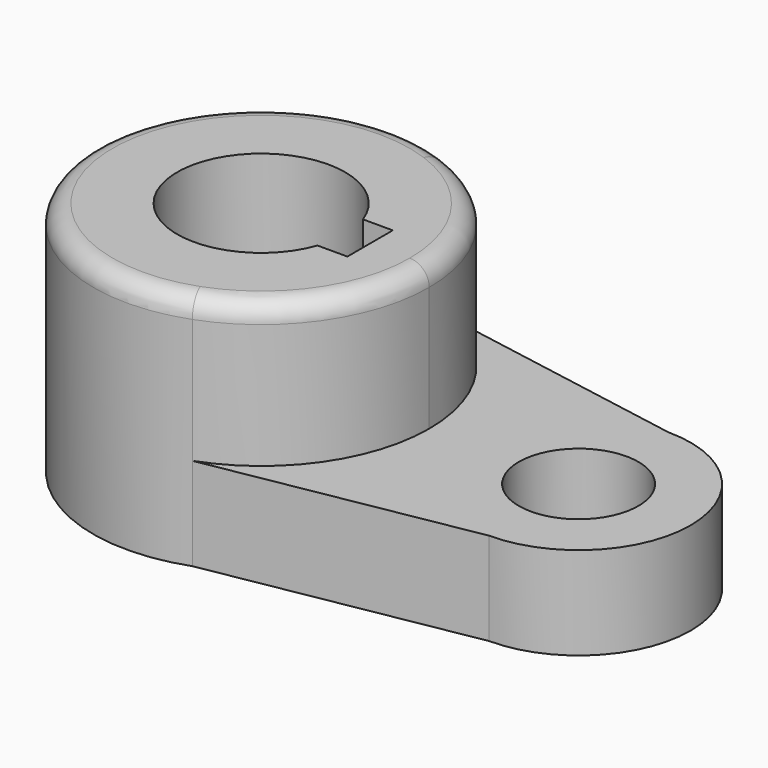
from build123d import *

# Parameters (mm, degrees)
F1_DEPTH = 40.2336
F2_DEPTH = 15.7734
F3_R     = 3.302


with BuildPart() as f1:
    # F0 (on Top) → F1 (new body)
    with BuildSketch(Plane.XY):
        with BuildLine():
            ThreePointArc((-29.8803903858, -26.8489932886), (-16.251542955, -16.3866864902), (-11.0860950838, 0))
            ThreePointArc((-11.0860950838, 0), (-16.251542955, 16.3866864902), (-29.8803903858, 26.8489932886))
            ThreePointArc((-29.8803903858, 26.8489932886), (-68.2360950838, 0), (-29.8803903858, -26.8489932886))
        make_face()
        with BuildLine():
            Line((-21.1405511945, 4.826), (-21.1405511945, 0))
            Line((-21.1405511945, 0), (-21.1405511945, -4.826))
            Line((-21.1405511945, -4.826), (-26.2133302045, -4.826))
            ThreePointArc((-26.2133302045, -4.826), (-53.9485950838, 0), (-26.2133302045, 4.826))
            Line((-26.2133302045, 4.826), (-21.1405511945, 4.826))
        make_face(mode=Mode.SUBTRACT)
    extrude(amount=F1_DEPTH)

    # F0 (on Top) → F2 (join)
    with BuildSketch(Plane.XY):
        with BuildLine():
            ThreePointArc((-29.8803903858, -26.8489932886), (-16.251542955, -16.3866864902), (-11.0860950838, 0))
            ThreePointArc((-11.0860950838, 0), (-16.251542955, 16.3866864902), (-29.8803903858, 26.8489932886))
            ThreePointArc((-29.8803903858, 26.8489932886), (-68.2360950838, 0), (-29.8803903858, -26.8489932886))
        make_face()
        with BuildLine():
            Line((-21.1405511945, 4.826), (-21.1405511945, 0))
            Line((-21.1405511945, 0), (-21.1405511945, -4.826))
            Line((-21.1405511945, -4.826), (-26.2133302045, -4.826))
            ThreePointArc((-26.2133302045, -4.826), (-53.9485950838, 0), (-26.2133302045, 4.826))
            Line((-26.2133302045, 4.826), (-21.1405511945, 4.826))
        make_face(mode=Mode.SUBTRACT)
        with BuildLine():
            ThreePointArc((-29.8803903858, 26.8489932886), (-16.251542955, 16.3866864902), (-11.0860950838, 0))
            ThreePointArc((-11.0860950838, 0), (-16.251542955, -16.3866864902), (-29.8803903858, -26.8489932886))
            Line((-29.8803903858, -26.8489932886), (14.3139049162, -19.05))
            ThreePointArc((14.3139049162, -19.05), (33.3639049162, 0), (14.3139049162, 19.05))
            Line((14.3139049162, 19.05), (-29.8803903858, 26.8489932886))
        make_face()
        with BuildLine():
            ThreePointArc((24.4739049162, 0), (14.3139049162, -10.16), (4.1539049162, 0))
            ThreePointArc((4.1539049162, 0), (14.3139049162, 10.16), (24.4739049162, 0))
        make_face(mode=Mode.SUBTRACT)
    extrude(amount=F2_DEPTH)

    # F3
    f3_edges = [f1.edges().sort_by_distance(p)[0] for p in [
        (-49.4418, 26.848993, 40.2336),
    ]]
    fillet(f3_edges, radius=F3_R)


solid = f1.part
